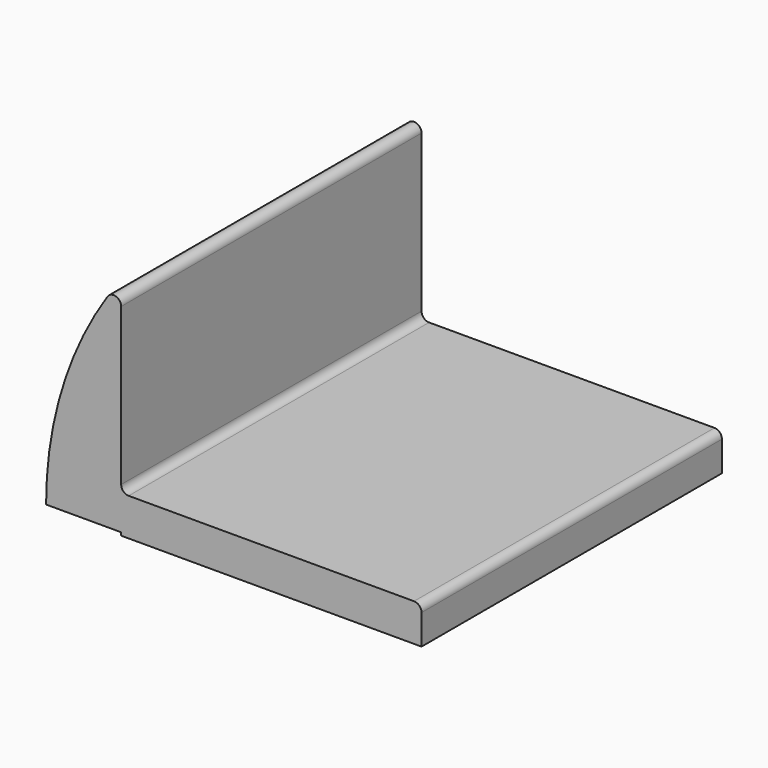
from build123d import *

# Parameters (mm, degrees)
F1_DEPTH = 127
F2_R     = 2.54


with BuildPart() as f1:
    # F0 (on Front) → F1 (new body)
    with BuildSketch(Plane.XZ):
        with BuildLine():
            ThreePointArc((25.4, 76.2), (6.521532, 40.69532), (0, 1.016))
            Line((0, 1.016), (25.4, 1.016))
            Line((25.4, 1.016), (25.4, 0))
            Line((25.4, 0), (127, 0))
            Line((127, 0), (127, 12.7))
            Line((127, 12.7), (25.4, 12.7))
            Line((25.4, 12.7), (25.4, 76.2))
        make_face()
    extrude(amount=F1_DEPTH)

    # F2
    f2_edges = [f1.edges().sort_by_distance(p)[0] for p in [
        (25.4, -63.5, 76.2),
        (25.4, -63.5, 12.7),
        (127, -63.5, 12.7),
    ]]
    fillet(f2_edges, radius=F2_R)


solid = f1.part
